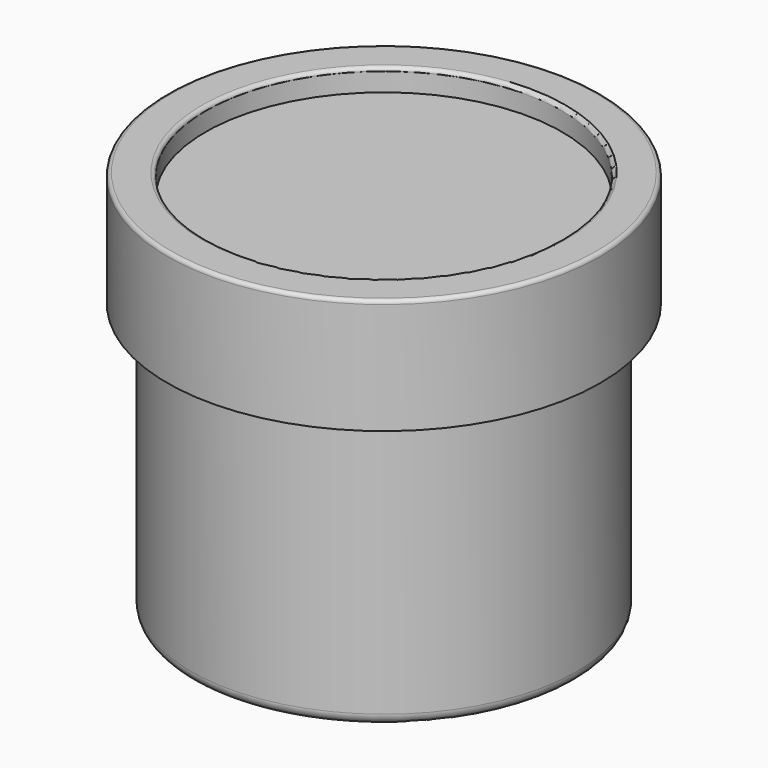
from build123d import *

# Parameters (mm, degrees)
F0_R     = 29.15
F0_R_2   = 24
F1_DEPTH = 15.5
F3_R     = 25
F4_DEPTH = 2.5
F5_R     = 26
F5_R_2   = 24
F6_DEPTH = 36.7
F7_R     = 25.5
F8_DEPTH = 1.5
F9_R     = 1.5
F10_R    = 0.5


with BuildPart() as f1:
    # F0 (on Top) → F1 (new body)
    with BuildSketch(Plane.XY):
        Circle(F0_R)
        Circle(F0_R_2, mode=Mode.SUBTRACT)
    extrude(amount=F1_DEPTH)

    # F5 (on face) → F6 (join)
    with BuildSketch(Plane(origin=(0, 0, 0), x_dir=(1, 0, 0), z_dir=(0, 0, -1))):
        Circle(F5_R)
        Circle(F5_R_2, mode=Mode.SUBTRACT)
    extrude(amount=F6_DEPTH)

    # F7 (on face) → F8 (join)
    with BuildSketch(Plane(origin=(0, 0, -36.7), x_dir=(1, 0, 0), z_dir=(0, 0, -1))):
        Circle(F7_R)
    extrude(amount=-F8_DEPTH)

    # F9
    f9_edges = [f1.edges().sort_by_distance(p)[0] for p in [
        (-26, 0, -36.7),
    ]]
    fillet(f9_edges, radius=F9_R)

    # F10
    f10_edges = [f1.edges().sort_by_distance(p)[0] for p in [
        (-29.15, 0, 15.5),
        (-24, 0, 15.5),
    ]]
    fillet(f10_edges, radius=F10_R)


with BuildPart() as f4:
    # F3 (on offset) → F4 (new body)
    with BuildSketch(Plane.XY.offset(10)):
        Circle(F3_R)
    extrude(amount=F4_DEPTH)


solid = Compound([f1.part, f4.part])
